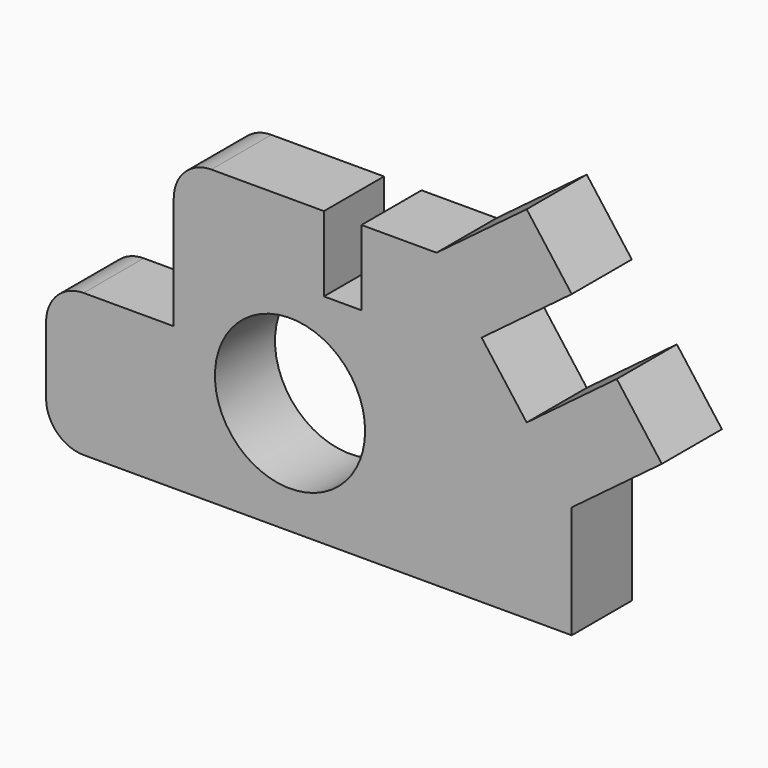
from build123d import *

# Parameters (mm, degrees)
F0_R     = 254
F1_DEPTH = 254


with BuildPart() as f1:
    # F0 (on Front) → F1 (new body)
    with BuildSketch(Plane.XZ):
        with BuildLine():
            ThreePointArc((0, 127), (37.197439, 37.197439), (127, 0))
            Line((127, 0), (1778, 0))
            Line((1778, 0), (1778, 381))
            Line((1778, 381), (2082.8, 609.6))
            Line((2082.8, 609.6), (1930.4, 812.8))
            Line((1930.4, 812.8), (1625.6, 584.2))
            Line((1625.6, 584.2), (1473.2, 787.4))
            Line((1473.2, 787.4), (1778, 1016))
            Line((1778, 1016), (1625.6, 1219.2))
            Line((1625.6, 1219.2), (1320.8, 990.6))
            Line((1320.8, 990.6), (1066.8, 990.6))
            Line((1066.8, 990.6), (1066.8, 736.6))
            Line((1066.8, 736.6), (939.8, 736.6))
            Line((939.8, 736.6), (939.8, 990.6))
            Line((939.8, 990.6), (685.8, 990.6))
            Line((685.8, 990.6), (558.8, 990.6))
            ThreePointArc((558.8, 990.6), (468.997439, 953.402561), (431.8, 863.6))
            Line((431.8, 863.6), (431.8, 736.6))
            Line((431.8, 736.6), (431.8, 482.6))
            Line((431.8, 482.6), (127, 482.6))
            ThreePointArc((127, 482.6), (37.197439, 445.402561), (0, 355.6))
            Line((0, 355.6), (0, 127))
        make_face()
        with Locations((825.109138, 381)):
            Circle(F0_R, mode=Mode.SUBTRACT)
    extrude(amount=F1_DEPTH)


solid = f1.part
